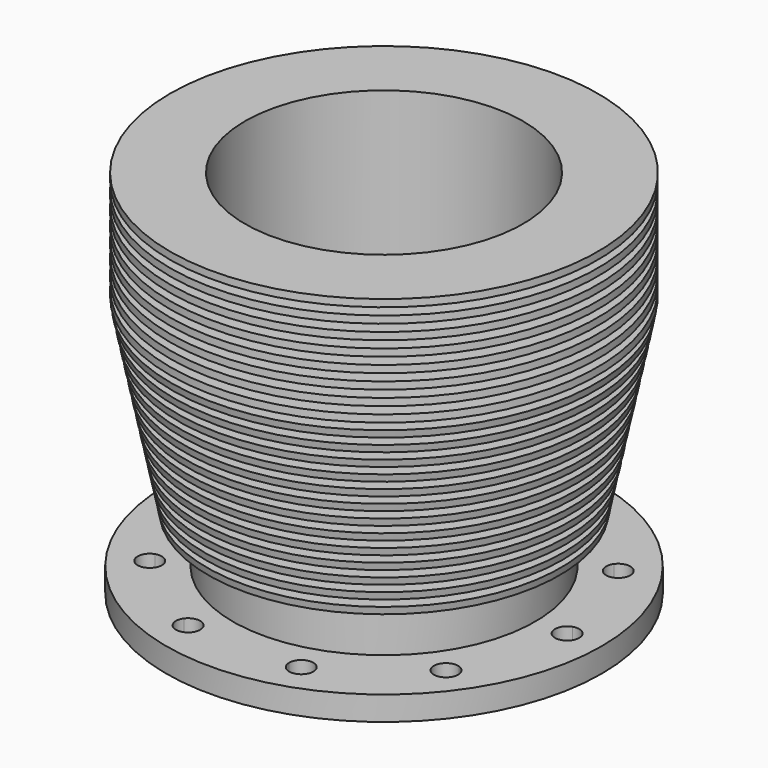
from build123d import *

# Parameters (mm, degrees)
F5_DEPTH = 25.4


with BuildPart() as f1:
    # F0 (on Front) → F1 (revolve)
    with BuildSketch(Plane.XZ):
        Polygon((-73.025, -96.192215), (-73.025, 98.280345), (-113.665, 98.280345), (-113.665, 94.470345), (-80.645, 94.470345), (-80.645, 90.660345), (-113.665, 90.660345), (-113.665, 86.850345), (-80.645, 86.850345), (-80.645, 83.040345), (-113.665, 83.040345), (-113.665, 79.230345), (-80.645, 79.230345), (-80.645, 75.420345), (-113.665, 75.420345), (-113.665, 71.610345), (-80.645, 71.610345), (-80.645, 67.800345), (-113.665, 67.800345), (-113.665, 63.990345), (-80.645, 63.990345), (-80.645, 60.180345), (-113.665, 60.180345), (-113.665, 56.370345), (-80.645, 56.370345), (-80.645, 52.560345), (-113.665, 52.560345), (-113.665, 48.750345), (-80.645, 48.750345), (-80.645, 44.940345), (-113.665, 44.940345), (-113.665, 41.130345), (-80.645, 41.130345), (-80.645, 37.320345), (-113.665, 37.320345), (-113.665, 33.510345), (-80.645, 33.510345), (-80.645, 29.700345), (-113.665, 29.700345), (-113.665, 25.890345), (-80.645, 25.890345), (-80.645, 22.080345), (-113.665, 22.080345), (-113.665, 18.270345), (-80.645, 18.270345), (-80.645, 14.460345), (-113.665, 14.460345), (-113.665, 10.650345), (-80.645, 10.650345), (-80.645, 6.840345), (-113.665, 6.840345), (-113.665, 3.030345), (-80.645, 3.030345), (-80.645, -0.779655), (-113.665, -0.779655), (-113.665, -4.589655), (-80.645, -4.589655), (-80.645, -8.399655), (-113.665, -8.399655), (-113.665, -12.209655), (-80.645, -12.209655), (-80.645, -16.019655), (-113.665, -16.019655), (-113.665, -19.829655), (-80.645, -19.829655), (-80.645, -23.639655), (-113.665, -23.639655), (-113.665, -27.449655), (-80.645, -27.449655), (-80.645, -31.259655), (-113.665, -31.259655), (-113.665, -35.069655), (-80.645, -35.069655), (-80.645, -38.879655), (-113.665, -38.879655), (-113.665, -42.689655), (-80.645, -42.689655), (-80.645, -46.499655), (-113.665, -46.499655), (-113.665, -50.309655), (-80.645, -50.309655), (-80.645, -53.012215), (-80.645, -54.119655), (-113.665, -54.119655), (-113.665, -57.929655), (-80.645, -57.929655), (-79.375, -61.739655), (-79.375, -65.549655), (-79.375, -83.492215), (-89.240745, -83.492215), (-114.3, -83.492215), (-114.3, -96.192215), align=None)
    revolve(axis=Axis((0, 0, -28.813493), (0, 0, -1)))

    # F2 (on Front) → F3 (revolve, cut)
    with BuildSketch(Plane.XZ):
        Polygon((-90.254217, -75.343326), (-90.020321, -68.326265), (-112.330668, 40.342327), (-112.330668, 54.898441), (-112.330668, 99.654861), (-98.720975, 122.993582), (-167.233683, 55.174064), (-167.233683, -75.343326), align=None)
    revolve(axis=Axis((0, 0, 57.428986), (0, 0, 1)), mode=Mode.SUBTRACT)

    # F4 (on face) → F5 (cut)
    with BuildSketch(Plane(origin=(0, 0, -96.192215), x_dir=(1, 0, 0), z_dir=(0, 0, -1))):
        with BuildLine():
            Line((-34.847915, 87.707564), (-29.710657, 91.44))
            Line((-29.710657, 91.44), (-23.360657, 91.44))
            ThreePointArc((-23.360657, 91.44), (-31.672915, 97.479209), (-34.847915, 87.707564))
        make_face()
        with BuildLine():
            Line((-23.360657, 91.44), (-29.710657, 91.44))
            Line((-29.710657, 91.44), (-34.847915, 87.707564))
            ThreePointArc((-34.847915, 87.707564), (-27.748399, 85.400791), (-23.360657, 91.44))
        make_face()
        with BuildLine():
            ThreePointArc((36.060657, 91.44), (29.710657, 97.79), (23.360657, 91.44))
            Line((23.360657, 91.44), (29.710657, 91.44))
            Line((29.710657, 91.44), (34.847915, 87.707564))
            ThreePointArc((34.847915, 87.707564), (35.749866, 89.477742), (36.060657, 91.44))
        make_face()
        with BuildLine():
            Line((29.710657, 91.44), (23.360657, 91.44))
            ThreePointArc((23.360657, 91.44), (27.748399, 85.400791), (34.847915, 87.707564))
            Line((34.847915, 87.707564), (29.710657, 91.44))
        make_face()
        with BuildLine():
            ThreePointArc((84.13351, 56.513028), (79.745768, 62.552237), (72.646252, 60.245464))
            Line((72.646252, 60.245464), (77.78351, 56.513028))
            Line((77.78351, 56.513028), (79.745768, 50.473819))
            ThreePointArc((79.745768, 50.473819), (82.920768, 52.780592), (84.13351, 56.513028))
        make_face()
        with BuildLine():
            Line((77.78351, 56.513028), (72.646252, 60.245464))
            ThreePointArc((72.646252, 60.245464), (72.646252, 52.780592), (79.745768, 50.473819))
            Line((79.745768, 50.473819), (77.78351, 56.513028))
        make_face()
        with BuildLine():
            ThreePointArc((102.495706, 0), (99.878142, 5.137258), (94.183448, 6.039209))
            Line((94.183448, 6.039209), (96.145706, 0))
            Line((96.145706, 0), (94.183448, -6.039209))
            ThreePointArc((94.183448, -6.039209), (99.878142, -5.137258), (102.495706, 0))
        make_face()
        with BuildLine():
            Line((96.145706, 0), (94.183448, 6.039209))
            ThreePointArc((94.183448, 6.039209), (89.795706, 0), (94.183448, -6.039209))
            Line((94.183448, -6.039209), (96.145706, 0))
        make_face()
        with BuildLine():
            ThreePointArc((84.13351, -56.513028), (82.920768, -52.780592), (79.745768, -50.473819))
            Line((79.745768, -50.473819), (77.78351, -56.513028))
            Line((77.78351, -56.513028), (72.646252, -60.245464))
            ThreePointArc((72.646252, -60.245464), (79.745768, -62.552237), (84.13351, -56.513028))
        make_face()
        with BuildLine():
            Line((77.78351, -56.513028), (79.745768, -50.473819))
            ThreePointArc((79.745768, -50.473819), (72.646252, -52.780592), (72.646252, -60.245464))
            Line((72.646252, -60.245464), (77.78351, -56.513028))
        make_face()
        with BuildLine():
            Line((29.710657, -91.44), (34.847915, -87.707564))
            ThreePointArc((34.847915, -87.707564), (27.748399, -85.400791), (23.360657, -91.44))
            Line((23.360657, -91.44), (29.710657, -91.44))
        make_face()
        with BuildLine():
            ThreePointArc((36.060657, -91.44), (35.749866, -89.477742), (34.847915, -87.707564))
            Line((34.847915, -87.707564), (29.710657, -91.44))
            Line((29.710657, -91.44), (23.360657, -91.44))
            ThreePointArc((23.360657, -91.44), (29.710657, -97.79), (36.060657, -91.44))
        make_face()
        with BuildLine():
            Line((-29.710657, -91.44), (-34.847915, -87.707564))
            ThreePointArc((-34.847915, -87.707564), (-31.672915, -97.479209), (-23.360657, -91.44))
            Line((-23.360657, -91.44), (-29.710657, -91.44))
        make_face()
        with BuildLine():
            ThreePointArc((-23.360657, -91.44), (-27.748399, -85.400791), (-34.847915, -87.707564))
            Line((-34.847915, -87.707564), (-29.710657, -91.44))
            Line((-29.710657, -91.44), (-23.360657, -91.44))
        make_face()
        with BuildLine():
            Line((-77.78351, -56.513028), (-79.745768, -50.473819))
            ThreePointArc((-79.745768, -50.473819), (-82.920768, -60.245464), (-72.646252, -60.245464))
            Line((-72.646252, -60.245464), (-77.78351, -56.513028))
        make_face()
        with BuildLine():
            ThreePointArc((-71.43351, -56.513028), (-74.051074, -51.37577), (-79.745768, -50.473819))
            Line((-79.745768, -50.473819), (-77.78351, -56.513028))
            Line((-77.78351, -56.513028), (-72.646252, -60.245464))
            ThreePointArc((-72.646252, -60.245464), (-71.744301, -58.475286), (-71.43351, -56.513028))
        make_face()
        with BuildLine():
            Line((-96.145706, 0), (-94.183448, 6.039209))
            ThreePointArc((-94.183448, 6.039209), (-102.495706, 0), (-94.183448, -6.039209))
            Line((-94.183448, -6.039209), (-96.145706, 0))
        make_face()
        with BuildLine():
            ThreePointArc((-89.795706, 0), (-91.008448, 3.732436), (-94.183448, 6.039209))
            Line((-94.183448, 6.039209), (-96.145706, 0))
            Line((-96.145706, 0), (-94.183448, -6.039209))
            ThreePointArc((-94.183448, -6.039209), (-91.008448, -3.732436), (-89.795706, 0))
        make_face()
        with BuildLine():
            Line((-77.78351, 56.513028), (-72.646252, 60.245464))
            ThreePointArc((-72.646252, 60.245464), (-82.920768, 60.245464), (-79.745768, 50.473819))
            Line((-79.745768, 50.473819), (-77.78351, 56.513028))
        make_face()
        with BuildLine():
            ThreePointArc((-71.43351, 56.513028), (-71.744301, 58.475286), (-72.646252, 60.245464))
            Line((-72.646252, 60.245464), (-77.78351, 56.513028))
            Line((-77.78351, 56.513028), (-79.745768, 50.473819))
            ThreePointArc((-79.745768, 50.473819), (-74.051074, 51.37577), (-71.43351, 56.513028))
        make_face()
    extrude(amount=-F5_DEPTH, mode=Mode.SUBTRACT)


solid = f1.part
